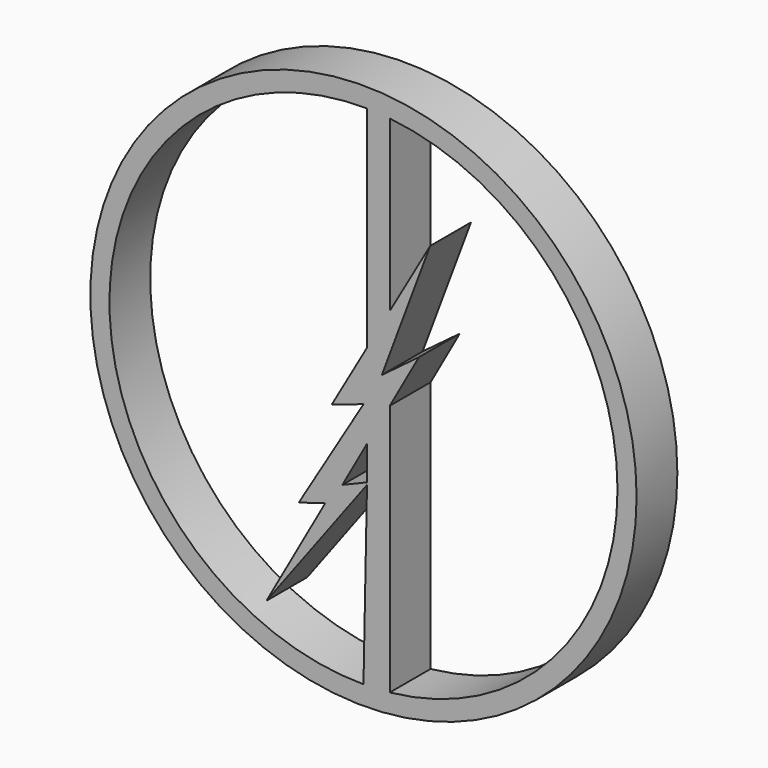
from build123d import *

# Parameters (mm, degrees)
F0_R     = 68.049486
F1_DEPTH = 12.7
F2_DEPTH = 12.7
F3_DEPTH = 12.7


with BuildPart() as f1:
    # F0 (on Front) → F1 (new body)
    with BuildSketch(Plane.XZ):
        with Locations((-4.564174, 0)):
            Circle(F0_R)
        with BuildLine():
            Line((-3.684707, 10.822025), (-12.461956, -4.483647))
            Line((-12.461956, -4.483647), (-4.564174, -1.85643))
            Line((-4.564174, -1.85643), (-20.681644, -28.66406))
            Line((-20.681644, -28.66406), (-14.103085, -26.690492))
            Line((-14.103085, -26.690492), (-28.74038, -52.840266))
            Line((-28.74038, -52.840266), (-3.684707, -19.27209))
            Line((-3.684707, -19.27209), (-4.564174, -63.296126))
            ThreePointArc((-4.564174, -63.296126), (-67.858772, 0.439744), (-3.684707, 63.290016))
            Line((-3.684707, 63.290016), (-3.684707, 10.822025))
        make_face(mode=Mode.SUBTRACT)
        Polygon((-3.684707, -10.249377), (-3.684707, -18.716367), (-9.827021, -21.26318), align=None, mode=Mode.SUBTRACT)
        with BuildLine():
            Line((0, 6.037842), (12.05563, 38.269857))
            Line((12.05563, 38.269857), (1.991368, 20.719905))
            Line((1.991368, 20.719905), (1.991368, 62.955734))
            ThreePointArc((1.991368, 62.955734), (58.731952, 0), (1.991368, -62.955734))
            Line((1.991368, -62.955734), (1.991368, -0.071586))
            Line((1.991368, -0.071586), (9.250801, 12.945329))
            Line((9.250801, 12.945329), (0, 6.037842))
        make_face(mode=Mode.SUBTRACT)
    extrude(amount=F1_DEPTH)


with BuildPart() as f2:
    # F0 (on Front) → F2 (new body)
    with BuildSketch(Plane.XZ):
        with Locations((-4.564174, 0)):
            Circle(F0_R)
        with BuildLine():
            Line((-3.684707, 10.822025), (-12.461956, -4.483647))
            Line((-12.461956, -4.483647), (-4.564174, -1.85643))
            Line((-4.564174, -1.85643), (-20.681644, -28.66406))
            Line((-20.681644, -28.66406), (-14.103085, -26.690492))
            Line((-14.103085, -26.690492), (-28.74038, -52.840266))
            Line((-28.74038, -52.840266), (-3.684707, -19.27209))
            Line((-3.684707, -19.27209), (-4.564174, -63.296126))
            ThreePointArc((-4.564174, -63.296126), (-67.858772, 0.439744), (-3.684707, 63.290016))
            Line((-3.684707, 63.290016), (-3.684707, 10.822025))
        make_face(mode=Mode.SUBTRACT)
        Polygon((-3.684707, -10.249377), (-3.684707, -18.716367), (-9.827021, -21.26318), align=None, mode=Mode.SUBTRACT)
        with BuildLine():
            Line((0, 6.037842), (12.05563, 38.269857))
            Line((12.05563, 38.269857), (1.991368, 20.719905))
            Line((1.991368, 20.719905), (1.991368, 62.955734))
            ThreePointArc((1.991368, 62.955734), (58.731952, 0), (1.991368, -62.955734))
            Line((1.991368, -62.955734), (1.991368, -0.071586))
            Line((1.991368, -0.071586), (9.250801, 12.945329))
            Line((9.250801, 12.945329), (0, 6.037842))
        make_face(mode=Mode.SUBTRACT)
    extrude(amount=F2_DEPTH)


with BuildPart() as f3:
    # F0 (on Front) → F3 (new body)
    with BuildSketch(Plane.XZ):
        with Locations((-4.564174, 0)):
            Circle(F0_R)
        with BuildLine():
            Line((-3.684707, 10.822025), (-12.461956, -4.483647))
            Line((-12.461956, -4.483647), (-4.564174, -1.85643))
            Line((-4.564174, -1.85643), (-20.681644, -28.66406))
            Line((-20.681644, -28.66406), (-14.103085, -26.690492))
            Line((-14.103085, -26.690492), (-28.74038, -52.840266))
            Line((-28.74038, -52.840266), (-3.684707, -19.27209))
            Line((-3.684707, -19.27209), (-4.564174, -63.296126))
            ThreePointArc((-4.564174, -63.296126), (-67.858772, 0.439744), (-3.684707, 63.290016))
            Line((-3.684707, 63.290016), (-3.684707, 10.822025))
        make_face(mode=Mode.SUBTRACT)
        Polygon((-3.684707, -10.249377), (-3.684707, -18.716367), (-9.827021, -21.26318), align=None, mode=Mode.SUBTRACT)
        with BuildLine():
            Line((0, 6.037842), (12.05563, 38.269857))
            Line((12.05563, 38.269857), (1.991368, 20.719905))
            Line((1.991368, 20.719905), (1.991368, 62.955734))
            ThreePointArc((1.991368, 62.955734), (58.731952, 0), (1.991368, -62.955734))
            Line((1.991368, -62.955734), (1.991368, -0.071586))
            Line((1.991368, -0.071586), (9.250801, 12.945329))
            Line((9.250801, 12.945329), (0, 6.037842))
        make_face(mode=Mode.SUBTRACT)
        with Locations((-4.564174, 0)):
            Circle(F0_R)
        with BuildLine():
            Line((-3.684707, 10.822025), (-12.461956, -4.483647))
            Line((-12.461956, -4.483647), (-4.564174, -1.85643))
            Line((-4.564174, -1.85643), (-20.681644, -28.66406))
            Line((-20.681644, -28.66406), (-14.103085, -26.690492))
            Line((-14.103085, -26.690492), (-28.74038, -52.840266))
            Line((-28.74038, -52.840266), (-3.684707, -19.27209))
            Line((-3.684707, -19.27209), (-4.564174, -63.296126))
            ThreePointArc((-4.564174, -63.296126), (-67.858772, 0.439744), (-3.684707, 63.290016))
            Line((-3.684707, 63.290016), (-3.684707, 10.822025))
        make_face(mode=Mode.SUBTRACT)
        Polygon((-3.684707, -10.249377), (-3.684707, -18.716367), (-9.827021, -21.26318), align=None, mode=Mode.SUBTRACT)
        with BuildLine():
            Line((0, 6.037842), (12.05563, 38.269857))
            Line((12.05563, 38.269857), (1.991368, 20.719905))
            Line((1.991368, 20.719905), (1.991368, 62.955734))
            ThreePointArc((1.991368, 62.955734), (58.731952, 0), (1.991368, -62.955734))
            Line((1.991368, -62.955734), (1.991368, -0.071586))
            Line((1.991368, -0.071586), (9.250801, 12.945329))
            Line((9.250801, 12.945329), (0, 6.037842))
        make_face(mode=Mode.SUBTRACT)
    extrude(amount=F3_DEPTH)


solid = Compound([f1.part, f2.part, f3.part])
